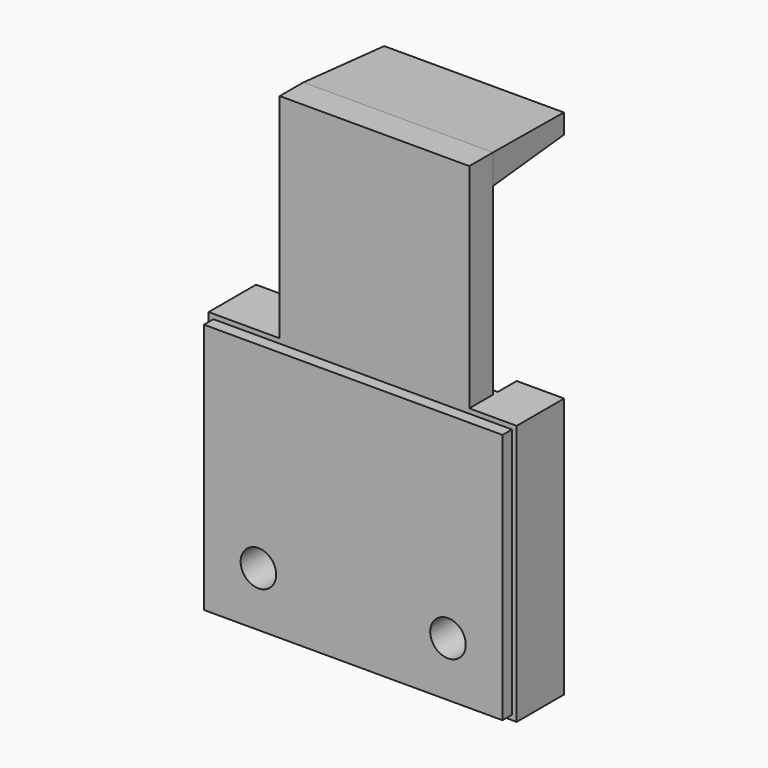
from build123d import *

# Parameters (mm, degrees)
F0_W      = 50.8
F0_H      = 57.15
F1_DEPTH  = 7.9375
F2_W      = 12.7
F2_H      = 69.85
F3_DEPTH  = 7.9375
F4_W      = 12.7
F4_H      = 69.85
F4_W_2    = 6.35
F5_DEPTH  = 1.5875
F6_W      = 50.8
F6_H      = 7.9375
F7_DEPTH  = 25.4
F7_TAPER  = 3
F8_W      = 80.01
F8_H      = 67.31
F9_DEPTH  = 3.175
F10_R     = 4.7625
F11_DEPTH = 9.525
F12_R     = 3.175
F13_DEPTH = 9.525


with BuildPart() as f1:
    # F0 (on Front) → F1 (new body)
    with BuildSketch(Plane.XZ):
        Polygon((0, 69.85), (0, 0), (82.55, 0), (82.55, 69.85), (69.85, 69.85), (19.05, 69.85), align=None)
        with Locations((44.45, 98.425)):
            Rectangle(F0_W, F0_H)
    extrude(amount=F1_DEPTH)

    # F2 (on face) → F3 (join)
    with BuildSketch(Plane(origin=(0, 0, 0), x_dir=(-1, 0, 0), z_dir=(0, 1, 0))):
        with Locations((-6.35, 34.925)):
            Rectangle(F2_W, F2_H)
        with Locations((-76.2, 34.925)):
            Rectangle(F2_W, F2_H)
    extrude(amount=F3_DEPTH)

    # F4 (on face) → F5 (join)
    with BuildSketch(Plane(origin=(0, 0, 0), x_dir=(-1, 0, 0), z_dir=(0, 1, 0))):
        with Locations((-19.05, 34.925)):
            Rectangle(F4_W, F4_H)
        with Locations((-66.675, 34.925)):
            Rectangle(F4_W_2, F4_H)
    extrude(amount=F5_DEPTH)

    # F6 (on face) → F7 (join)
    with BuildSketch(Plane(origin=(0, 0, 0), x_dir=(-1, 0, 0), z_dir=(0, 1, 0))):
        with Locations((-44.45, 123.03125)):
            Rectangle(F6_W, F6_H)
    extrude(amount=F7_DEPTH, taper=F7_TAPER)

    # F8 (on face) → F9 (join)
    with BuildSketch(Plane.XZ.offset(7.9375)):
        with Locations((41.275, 34.925)):
            Rectangle(F8_W, F8_H)
    extrude(amount=F9_DEPTH)

    # F10 (on face) → F11 (cut)
    with BuildSketch(Plane.XZ.offset(11.1125)):
        with Locations((15.875, 15.875)):
            Circle(F10_R)
        with Locations((66.675, 15.875)):
            Circle(F10_R)
    extrude(amount=-F11_DEPTH, mode=Mode.SUBTRACT)

    # F12 (on face) → F13 (cut)
    with BuildSketch(Plane(origin=(0, 7.9375, 0), x_dir=(-1, 0, 0), z_dir=(0, 1, 0))):
        with Locations((-76.2, 50.8)):
            Circle(F12_R)
        with Locations((-76.2, 19.05)):
            Circle(F12_R)
        with Locations((-6.35, 50.8)):
            Circle(F12_R)
        with Locations((-6.35, 19.05)):
            Circle(F12_R)
    extrude(amount=-F13_DEPTH, mode=Mode.SUBTRACT)


solid = f1.part
